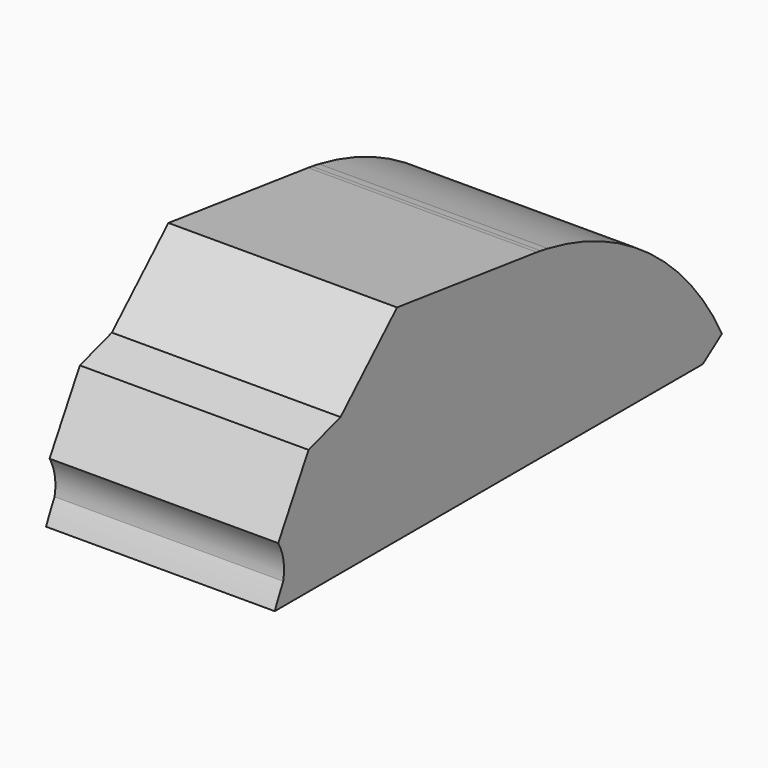
from build123d import *

# Parameters (mm, degrees)
F1_DEPTH      = 15.24
F1_DEPTH_BACK = 15.24


with BuildPart() as f1:
    # F0 (on Right) → F1 (new body, two sides)
    with BuildSketch(Plane.YZ) as f1_sk:
        with BuildLine():
            ThreePointArc((-1.434684, 2.266193), (-13.407881, 16.531469), (-30.440374, 24.064712))
            ThreePointArc((-30.440374, 24.064712), (-21.972596, 20.363563), (-15.764277, 13.518233))
            ThreePointArc((-15.764277, 13.518233), (-15.114308, 11.234153), (-16.148772, 9.096545))
            Line((-16.148772, 9.096545), (-50.502049, 12.267617))
            ThreePointArc((-50.502049, 12.267617), (-55.179249, 9.077793), (-57.481937, 3.905869))
            Line((-57.481937, 3.905869), (-4.613936, 0))
            Line((-4.613936, 0), (-1.434684, 2.266193))
        make_face()
        with BuildLine():
            ThreePointArc((-30.440374, 24.064712), (-31.030504, 24.176615), (-31.623462, 24.272407))
            ThreePointArc((-31.623462, 24.272407), (-31.031161, 24.172873), (-30.440374, 24.064712))
        make_face()
        with BuildLine():
            ThreePointArc((-74.524937, 2.932697), (-75.260293, 1.480311), (-75.937681, 0))
            ThreePointArc((-75.937681, 0), (-75.049977, 1.378997), (-74.524937, 2.932697))
        make_face()
        Polygon((-4.613936, 0), (-57.481937, 3.905869), (-60.1734, 0), align=None)
        with BuildLine():
            ThreePointArc((-50.502049, 12.267617), (-42.703408, 20.296684), (-32.278686, 24.372209))
            Line((-32.278686, 24.372209), (-55.559464, 27.360039))
            Line((-55.559464, 27.360039), (-64.979583, 18.324416))
            ThreePointArc((-64.979583, 18.324416), (-58.204998, 14.186486), (-50.502049, 12.267617))
        make_face()
        with BuildLine():
            ThreePointArc((-30.440374, 24.064712), (-31.031161, 24.172873), (-31.623462, 24.272407))
            ThreePointArc((-31.623462, 24.272407), (-31.950873, 24.323626), (-32.278686, 24.372209))
            ThreePointArc((-32.278686, 24.372209), (-42.703408, 20.296684), (-50.502049, 12.267617))
            Line((-50.502049, 12.267617), (-16.148772, 9.096545))
            ThreePointArc((-16.148772, 9.096545), (-15.114308, 11.234153), (-15.764277, 13.518233))
            ThreePointArc((-15.764277, 13.518233), (-21.972596, 20.363563), (-30.440374, 24.064712))
        make_face()
        with BuildLine():
            ThreePointArc((-57.481937, 3.905869), (-55.179249, 9.077793), (-50.502049, 12.267617))
            ThreePointArc((-50.502049, 12.267617), (-58.204998, 14.186486), (-64.979583, 18.324416))
            Line((-64.979583, 18.324416), (-70.306638, 16.641369))
            Line((-70.306638, 16.641369), (-75.360931, 7.750814))
            ThreePointArc((-75.360931, 7.750814), (-74.486311, 5.420985), (-74.524937, 2.932697))
            ThreePointArc((-74.524937, 2.932697), (-75.049977, 1.378997), (-75.937681, 0))
            Line((-75.937681, 0), (-60.1734, 0))
            Line((-60.1734, 0), (-57.481937, 3.905869))
        make_face()
    extrude(amount=F1_DEPTH)
    extrude(f1_sk.sketch, amount=-F1_DEPTH_BACK)


solid = f1.part
